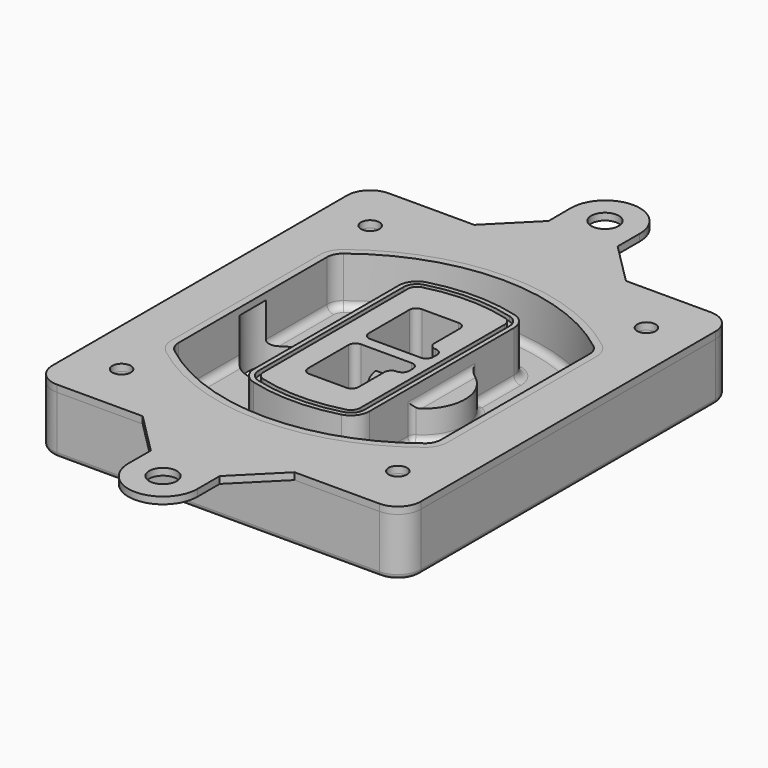
from build123d import *

# Parameters (mm, degrees)
F0_R      = 4
F1_DEPTH  = 25
F2_DEPTH  = 3
F3_DEPTH  = 18
F5_DEPTH  = 21
F6_DEPTH  = 2
F8_DEPTH  = 20
F9_DEPTH  = 16
F10_DEPTH = 25
F7_R      = 6
F7_R_2    = 4
F11_DEPTH = 6
F13_DEPTH = 9
F14_R     = 3
F15_R     = 2
F16_R     = 4
F16_R_2   = 6
F17_DEPTH = 3


with BuildPart() as f1:
    # F0 (on Top) → F1 (new body)
    with BuildSketch(Plane.XY):
        with BuildLine():
            ThreePointArc((-80, -80), (-77.0710678119, -87.0710678119), (-70, -90))
            Line((-70, -90), (70, -90))
            ThreePointArc((70, -90), (77.0710678119, -87.0710678119), (80, -80))
            Line((80, -80), (80, 80))
            ThreePointArc((80, 80), (77.0710678119, 87.0710678119), (70, 90))
            Line((70, 90), (-70, 90))
            ThreePointArc((-70, 90), (-77.0710678119, 87.0710678119), (-80, 80))
            Line((-80, 80), (-80, -80))
        make_face()
        with Locations((-60, -67.5)):
            Circle(F0_R, mode=Mode.SUBTRACT)
        with Locations((60, -67.5)):
            Circle(F0_R, mode=Mode.SUBTRACT)
        with Locations((-60, 67.5)):
            Circle(F0_R, mode=Mode.SUBTRACT)
        with BuildLine():
            ThreePointArc((-64, 40.2934422872), (-62.5820384798, 46.4328484224), (-58.6153846154, 51.3286200352))
            ThreePointArc((-58.6153846154, 51.3286200352), (0, 71.5), (58.6153846154, 51.3286200352))
            ThreePointArc((58.6153846154, 51.3286200352), (62.5820384798, 46.4328484224), (64, 40.2934422872))
            Line((64, 40.2934422872), (64, -40.2934422872))
            ThreePointArc((64, -40.2934422872), (62.5820384798, -46.4328484224), (58.6153846154, -51.3286200352))
            ThreePointArc((58.6153846154, -51.3286200352), (0, -71.5), (-58.6153846154, -51.3286200352))
            ThreePointArc((-58.6153846154, -51.3286200352), (-62.5820384798, -46.4328484224), (-64, -40.2934422872))
            Line((-64, -40.2934422872), (-64, 40.2934422872))
        make_face(mode=Mode.SUBTRACT)
        with Locations((60, 67.5)):
            Circle(F0_R, mode=Mode.SUBTRACT)
        with BuildLine():
            ThreePointArc((58.6153846154, 51.3286200352), (0, 71.5), (-58.6153846154, 51.3286200352))
            ThreePointArc((-58.6153846154, 51.3286200352), (-62.5820384798, 46.4328484224), (-64, 40.2934422872))
            Line((-64, 40.2934422872), (-64, -40.2934422872))
            ThreePointArc((-64, -40.2934422872), (-62.5820384798, -46.4328484224), (-58.6153846154, -51.3286200352))
            ThreePointArc((-58.6153846154, -51.3286200352), (0, -71.5), (58.6153846154, -51.3286200352))
            ThreePointArc((58.6153846154, -51.3286200352), (62.5820384798, -46.4328484224), (64, -40.2934422872))
            Line((64, -40.2934422872), (64, 40.2934422872))
            ThreePointArc((64, 40.2934422872), (62.5820384798, 46.4328484224), (58.6153846154, 51.3286200352))
        make_face()
        with BuildLine():
            Line((-60, -40.2934422872), (-60, 40.2934422872))
            ThreePointArc((-60, 40.2934422872), (-58.9871703427, 44.6787323838), (-56.1538461538, 48.1757121072))
            ThreePointArc((-56.1538461538, 48.1757121072), (0, 67.5), (56.1538461538, 48.1757121072))
            ThreePointArc((56.1538461538, 48.1757121072), (58.9871703427, 44.6787323838), (60, 40.2934422872))
            Line((60, 40.2934422872), (60, -40.2934422872))
            ThreePointArc((60, -40.2934422872), (58.9871703427, -44.6787323838), (56.1538461538, -48.1757121072))
            ThreePointArc((56.1538461538, -48.1757121072), (0, -67.5), (-56.1538461538, -48.1757121072))
            ThreePointArc((-56.1538461538, -48.1757121072), (-58.9871703427, -44.6787323838), (-60, -40.2934422872))
        make_face(mode=Mode.SUBTRACT)
        with BuildLine():
            ThreePointArc((-56.1538461538, 48.1757121072), (-58.9871703427, 44.6787323838), (-60, 40.2934422872))
            Line((-60, 40.2934422872), (-60, -40.2934422872))
            ThreePointArc((-60, -40.2934422872), (-58.9871703427, -44.6787323838), (-56.1538461538, -48.1757121072))
            ThreePointArc((-56.1538461538, -48.1757121072), (0, -67.5), (56.1538461538, -48.1757121072))
            ThreePointArc((56.1538461538, -48.1757121072), (58.9871703427, -44.6787323838), (60, -40.2934422872))
            Line((60, -40.2934422872), (60, 40.2934422872))
            ThreePointArc((60, 40.2934422872), (58.9871703427, 44.6787323838), (56.1538461538, 48.1757121072))
            ThreePointArc((56.1538461538, 48.1757121072), (0, 67.5), (-56.1538461538, 48.1757121072))
        make_face()
        with BuildLine():
            ThreePointArc((54.3076923077, 45.8110311612), (56.2910192399, 43.3631453548), (57, 40.2934422872))
            Line((57, 40.2934422872), (57, -40.2934422872))
            ThreePointArc((57, -40.2934422872), (56.2910192399, -43.3631453548), (54.3076923077, -45.8110311612))
            ThreePointArc((54.3076923077, -45.8110311612), (0, -64.5), (-54.3076923077, -45.8110311612))
            ThreePointArc((-54.3076923077, -45.8110311612), (-56.2910192399, -43.3631453548), (-57, -40.2934422872))
            Line((-57, -40.2934422872), (-57, 40.2934422872))
            ThreePointArc((-57, 40.2934422872), (-56.2910192399, 43.3631453548), (-54.3076923077, 45.8110311612))
            ThreePointArc((-54.3076923077, 45.8110311612), (0, 64.5), (54.3076923077, 45.8110311612))
        make_face(mode=Mode.SUBTRACT)
        with BuildLine():
            Line((57, -40.2934422872), (57, 40.2934422872))
            ThreePointArc((57, 40.2934422872), (56.2910192399, 43.3631453548), (54.3076923077, 45.8110311612))
            ThreePointArc((54.3076923077, 45.8110311612), (0, 64.5), (-54.3076923077, 45.8110311612))
            ThreePointArc((-54.3076923077, 45.8110311612), (-56.2910192399, 43.3631453548), (-57, 40.2934422872))
            Line((-57, 40.2934422872), (-57, -40.2934422872))
            ThreePointArc((-57, -40.2934422872), (-56.2910192399, -43.3631453548), (-54.3076923077, -45.8110311612))
            ThreePointArc((-54.3076923077, -45.8110311612), (0, -64.5), (54.3076923077, -45.8110311612))
            ThreePointArc((54.3076923077, -45.8110311612), (56.2910192399, -43.3631453548), (57, -40.2934422872))
        make_face()
    extrude(amount=-F1_DEPTH)

    # F0 (on Top) → F2 (join)
    with BuildSketch(Plane.XY):
        with BuildLine():
            ThreePointArc((-56.1538461538, 48.1757121072), (-58.9871703427, 44.6787323838), (-60, 40.2934422872))
            Line((-60, 40.2934422872), (-60, -40.2934422872))
            ThreePointArc((-60, -40.2934422872), (-58.9871703427, -44.6787323838), (-56.1538461538, -48.1757121072))
            ThreePointArc((-56.1538461538, -48.1757121072), (0, -67.5), (56.1538461538, -48.1757121072))
            ThreePointArc((56.1538461538, -48.1757121072), (58.9871703427, -44.6787323838), (60, -40.2934422872))
            Line((60, -40.2934422872), (60, 40.2934422872))
            ThreePointArc((60, 40.2934422872), (58.9871703427, 44.6787323838), (56.1538461538, 48.1757121072))
            ThreePointArc((56.1538461538, 48.1757121072), (0, 67.5), (-56.1538461538, 48.1757121072))
        make_face()
        with BuildLine():
            ThreePointArc((54.3076923077, 45.8110311612), (56.2910192399, 43.3631453548), (57, 40.2934422872))
            Line((57, 40.2934422872), (57, -40.2934422872))
            ThreePointArc((57, -40.2934422872), (56.2910192399, -43.3631453548), (54.3076923077, -45.8110311612))
            ThreePointArc((54.3076923077, -45.8110311612), (0, -64.5), (-54.3076923077, -45.8110311612))
            ThreePointArc((-54.3076923077, -45.8110311612), (-56.2910192399, -43.3631453548), (-57, -40.2934422872))
            Line((-57, -40.2934422872), (-57, 40.2934422872))
            ThreePointArc((-57, 40.2934422872), (-56.2910192399, 43.3631453548), (-54.3076923077, 45.8110311612))
            ThreePointArc((-54.3076923077, 45.8110311612), (0, 64.5), (54.3076923077, 45.8110311612))
        make_face(mode=Mode.SUBTRACT)
    extrude(amount=F2_DEPTH)

    # F0 (on Top) → F3 (cut)
    with BuildSketch(Plane.XY):
        with BuildLine():
            Line((57, -40.2934422872), (57, 40.2934422872))
            ThreePointArc((57, 40.2934422872), (56.2910192399, 43.3631453548), (54.3076923077, 45.8110311612))
            ThreePointArc((54.3076923077, 45.8110311612), (0, 64.5), (-54.3076923077, 45.8110311612))
            ThreePointArc((-54.3076923077, 45.8110311612), (-56.2910192399, 43.3631453548), (-57, 40.2934422872))
            Line((-57, 40.2934422872), (-57, -40.2934422872))
            ThreePointArc((-57, -40.2934422872), (-56.2910192399, -43.3631453548), (-54.3076923077, -45.8110311612))
            ThreePointArc((-54.3076923077, -45.8110311612), (0, -64.5), (54.3076923077, -45.8110311612))
            ThreePointArc((54.3076923077, -45.8110311612), (56.2910192399, -43.3631453548), (57, -40.2934422872))
        make_face()
    extrude(amount=-F3_DEPTH, mode=Mode.SUBTRACT)

    # F4 (on face) → F5 (join, through all)
    with BuildSketch(Plane.XY.offset(3)):
        with BuildLine():
            ThreePointArc((-25, -39.2465276821), (-23.3511545998, -44.1109737193), (-19.0842911877, -46.9702398883))
            ThreePointArc((-19.0842911877, -46.9702398883), (0, -49.5), (19.0842911877, -46.9702398883))
            ThreePointArc((19.0842911877, -46.9702398883), (23.3511545998, -44.1109737193), (25, -39.2465276821))
            Line((25, -39.2465276821), (25, 39.2465276821))
            ThreePointArc((25, 39.2465276821), (23.3511545998, 44.1109737193), (19.0842911877, 46.9702398883))
            ThreePointArc((19.0842911877, 46.9702398883), (0, 49.5), (-19.0842911877, 46.9702398883))
            ThreePointArc((-19.0842911877, 46.9702398883), (-23.3511545998, 44.1109737193), (-25, 39.2465276821))
            Line((-25, 39.2465276821), (-25, -39.2465276821))
        make_face()
        with BuildLine():
            ThreePointArc((18.5632183908, 45.0393118368), (21.7633659499, 42.89486221), (23, 39.2465276821))
            Line((23, 39.2465276821), (23, -39.2465276821))
            ThreePointArc((23, -39.2465276821), (21.7633659499, -42.89486221), (18.5632183908, -45.0393118368))
            ThreePointArc((18.5632183908, -45.0393118368), (0, -47.5), (-18.5632183908, -45.0393118368))
            ThreePointArc((-18.5632183908, -45.0393118368), (-21.7633659499, -42.89486221), (-23, -39.2465276821))
            Line((-23, -39.2465276821), (-23, 39.2465276821))
            ThreePointArc((-23, 39.2465276821), (-21.7633659499, 42.89486221), (-18.5632183908, 45.0393118368))
            ThreePointArc((-18.5632183908, 45.0393118368), (0, 47.5), (18.5632183908, 45.0393118368))
        make_face(mode=Mode.SUBTRACT)
        with BuildLine():
            Line((23, -39.2465276821), (23, 39.2465276821))
            ThreePointArc((23, 39.2465276821), (21.7633659499, 42.89486221), (18.5632183908, 45.0393118368))
            ThreePointArc((18.5632183908, 45.0393118368), (0, 47.5), (-18.5632183908, 45.0393118368))
            ThreePointArc((-18.5632183908, 45.0393118368), (-21.7633659499, 42.89486221), (-23, 39.2465276821))
            Line((-23, 39.2465276821), (-23, -39.2465276821))
            ThreePointArc((-23, -39.2465276821), (-21.7633659499, -42.89486221), (-18.5632183908, -45.0393118368))
            ThreePointArc((-18.5632183908, -45.0393118368), (0, -47.5), (18.5632183908, -45.0393118368))
            ThreePointArc((18.5632183908, -45.0393118368), (21.7633659499, -42.89486221), (23, -39.2465276821))
        make_face()
        with BuildLine():
            ThreePointArc((18.0421455939, 43.1083837852), (20.1755772999, 41.6787507007), (21, 39.2465276821))
            Line((21, 39.2465276821), (21, -39.2465276821))
            ThreePointArc((21, -39.2465276821), (20.1755772999, -41.6787507007), (18.0421455939, -43.1083837852))
            ThreePointArc((18.0421455939, -43.1083837852), (0, -45.5), (-18.0421455939, -43.1083837852))
            ThreePointArc((-18.0421455939, -43.1083837852), (-20.1755772999, -41.6787507007), (-21, -39.2465276821))
            Line((-21, -39.2465276821), (-21, 39.2465276821))
            ThreePointArc((-21, 39.2465276821), (-20.1755772999, 41.6787507007), (-18.0421455939, 43.1083837852))
            ThreePointArc((-18.0421455939, 43.1083837852), (0, 45.5), (18.0421455939, 43.1083837852))
        make_face(mode=Mode.SUBTRACT)
        with BuildLine():
            Line((21, -39.2465276821), (21, 39.2465276821))
            ThreePointArc((21, 39.2465276821), (20.1755772999, 41.6787507007), (18.0421455939, 43.1083837852))
            ThreePointArc((18.0421455939, 43.1083837852), (0, 45.5), (-18.0421455939, 43.1083837852))
            ThreePointArc((-18.0421455939, 43.1083837852), (-20.1755772999, 41.6787507007), (-21, 39.2465276821))
            Line((-21, 39.2465276821), (-21, -39.2465276821))
            ThreePointArc((-21, -39.2465276821), (-20.1755772999, -41.6787507007), (-18.0421455939, -43.1083837852))
            ThreePointArc((-18.0421455939, -43.1083837852), (0, -45.5), (18.0421455939, -43.1083837852))
            ThreePointArc((18.0421455939, -43.1083837852), (20.1755772999, -41.6787507007), (21, -39.2465276821))
        make_face()
        with BuildLine():
            Line((-8, -2.5), (14, -2.5))
            ThreePointArc((14, -2.5), (16.1213203436, -3.3786796564), (17, -5.5))
            Line((17, -5.5), (17, -7.5))
            ThreePointArc((17, -7.5), (16.1213203436, -9.6213203436), (14, -10.5))
            ThreePointArc((14, -10.5), (11.8786796564, -11.3786796564), (11, -13.5))
            Line((11, -13.5), (11, -27.5))
            ThreePointArc((11, -27.5), (10.1213203436, -29.6213203436), (8, -30.5))
            Line((8, -30.5), (-8, -30.5))
            ThreePointArc((-8, -30.5), (-10.1213203436, -29.6213203436), (-11, -27.5))
            Line((-11, -27.5), (-11, -5.5))
            ThreePointArc((-11, -5.5), (-10.1213203436, -3.3786796564), (-8, -2.5))
        make_face(mode=Mode.SUBTRACT)
        with BuildLine():
            ThreePointArc((-8, 2.5), (-10.1213203436, 3.3786796564), (-11, 5.5))
            Line((-11, 5.5), (-11, 27.5))
            ThreePointArc((-11, 27.5), (-10.1213203436, 29.6213203436), (-8, 30.5))
            Line((-8, 30.5), (8, 30.5))
            ThreePointArc((8, 30.5), (10.1213203436, 29.6213203436), (11, 27.5))
            Line((11, 27.5), (11, 13.5))
            ThreePointArc((11, 13.5), (11.8786796564, 11.3786796564), (14, 10.5))
            ThreePointArc((14, 10.5), (16.1213203436, 9.6213203436), (17, 7.5))
            Line((17, 7.5), (17, 5.5))
            ThreePointArc((17, 5.5), (16.1213203436, 3.3786796564), (14, 2.5))
            Line((14, 2.5), (-8, 2.5))
        make_face(mode=Mode.SUBTRACT)
    extrude(amount=-F5_DEPTH)

    # F4 (on face) → F6 (cut)
    with BuildSketch(Plane.XY.offset(3)):
        with BuildLine():
            Line((23, -39.2465276821), (23, 39.2465276821))
            ThreePointArc((23, 39.2465276821), (21.7633659499, 42.89486221), (18.5632183908, 45.0393118368))
            ThreePointArc((18.5632183908, 45.0393118368), (0, 47.5), (-18.5632183908, 45.0393118368))
            ThreePointArc((-18.5632183908, 45.0393118368), (-21.7633659499, 42.89486221), (-23, 39.2465276821))
            Line((-23, 39.2465276821), (-23, -39.2465276821))
            ThreePointArc((-23, -39.2465276821), (-21.7633659499, -42.89486221), (-18.5632183908, -45.0393118368))
            ThreePointArc((-18.5632183908, -45.0393118368), (0, -47.5), (18.5632183908, -45.0393118368))
            ThreePointArc((18.5632183908, -45.0393118368), (21.7633659499, -42.89486221), (23, -39.2465276821))
        make_face()
        with BuildLine():
            ThreePointArc((18.0421455939, 43.1083837852), (20.1755772999, 41.6787507007), (21, 39.2465276821))
            Line((21, 39.2465276821), (21, -39.2465276821))
            ThreePointArc((21, -39.2465276821), (20.1755772999, -41.6787507007), (18.0421455939, -43.1083837852))
            ThreePointArc((18.0421455939, -43.1083837852), (0, -45.5), (-18.0421455939, -43.1083837852))
            ThreePointArc((-18.0421455939, -43.1083837852), (-20.1755772999, -41.6787507007), (-21, -39.2465276821))
            Line((-21, -39.2465276821), (-21, 39.2465276821))
            ThreePointArc((-21, 39.2465276821), (-20.1755772999, 41.6787507007), (-18.0421455939, 43.1083837852))
            ThreePointArc((-18.0421455939, 43.1083837852), (0, 45.5), (18.0421455939, 43.1083837852))
        make_face(mode=Mode.SUBTRACT)
    extrude(amount=-F6_DEPTH, mode=Mode.SUBTRACT)

    # F7 (on face) → F8 (join)
    with BuildSketch(Plane(origin=(0, 0, -25), x_dir=(1, 0, 0), z_dir=(0, 0, -1))):
        with BuildLine():
            ThreePointArc((3.28842436, 0), (16.7567035675, 13.4682792075), (30.224982775, 0))
            Line((30.224982775, 0), (35.224982775, 0))
            ThreePointArc((35.224982775, 0), (16.7567035675, 18.4682792075), (-1.71157564, 0))
            Line((-1.71157564, 0), (3.28842436, 0))
        make_face()
        with BuildLine():
            Line((3.28842436, 0), (30.224982775, 0))
            ThreePointArc((30.224982775, 0), (16.7567035675, 13.4682792075), (3.28842436, 0))
        make_face()
        with BuildLine():
            ThreePointArc((3.28842436, 0), (16.7567035675, -13.4682792075), (30.224982775, 0))
            Line((30.224982775, 0), (3.28842436, 0))
        make_face()
        with BuildLine():
            Line((35.224982775, 0), (30.224982775, 0))
            ThreePointArc((30.224982775, 0), (16.7567035675, -13.4682792075), (3.28842436, 0))
            Line((3.28842436, 0), (-1.71157564, 0))
            ThreePointArc((-1.71157564, 0), (16.7567035675, -18.4682792075), (35.224982775, 0))
        make_face()
    extrude(amount=-F8_DEPTH)

    # F7 (on face) → F9 (cut)
    with BuildSketch(Plane(origin=(0, 0, -25), x_dir=(1, 0, 0), z_dir=(0, 0, -1))):
        with BuildLine():
            Line((3.28842436, 0), (30.224982775, 0))
            ThreePointArc((30.224982775, 0), (16.7567035675, 13.4682792075), (3.28842436, 0))
        make_face()
        with BuildLine():
            ThreePointArc((3.28842436, 0), (16.7567035675, -13.4682792075), (30.224982775, 0))
            Line((30.224982775, 0), (3.28842436, 0))
        make_face()
    extrude(amount=-F9_DEPTH, mode=Mode.SUBTRACT)

    # F7 (on face) → F10 (cut)
    with BuildSketch(Plane(origin=(0, 0, -25), x_dir=(1, 0, 0), z_dir=(0, 0, -1))):
        with BuildLine():
            Line((-59.0318229325, 0), (-32.0952645175, 0))
            ThreePointArc((-32.0952645175, 0), (-45.563543725, 13.4682792075), (-59.0318229325, 0))
        make_face()
        with BuildLine():
            ThreePointArc((-59.0318229325, 0), (-45.563543725, -13.4682792075), (-32.0952645175, 0))
            Line((-32.0952645175, 0), (-59.0318229325, 0))
        make_face()
    extrude(amount=-F10_DEPTH, mode=Mode.SUBTRACT)

    # F7 (on face) → F11 (cut)
    with BuildSketch(Plane(origin=(0, 0, -25), x_dir=(1, 0, 0), z_dir=(0, 0, -1))):
        with Locations((60, -67.5)):
            Circle(F7_R)
        with Locations((60, -67.5)):
            Circle(F7_R_2, mode=Mode.SUBTRACT)
        with Locations((60, -67.5)):
            Circle(F7_R)
        with Locations((60, -67.5)):
            Circle(F7_R_2, mode=Mode.SUBTRACT)
        with Locations((-60, -67.5)):
            Circle(F7_R)
        with Locations((-60, -67.5)):
            Circle(F7_R_2, mode=Mode.SUBTRACT)
        with Locations((-60, -67.5)):
            Circle(F7_R)
        with Locations((-60, -67.5)):
            Circle(F7_R_2, mode=Mode.SUBTRACT)
        with Locations((-60, 67.5)):
            Circle(F7_R)
        with Locations((-60, 67.5)):
            Circle(F7_R_2, mode=Mode.SUBTRACT)
        with Locations((-60, 67.5)):
            Circle(F7_R)
        with Locations((-60, 67.5)):
            Circle(F7_R_2, mode=Mode.SUBTRACT)
        with Locations((60, 67.5)):
            Circle(F7_R)
        with Locations((60, 67.5)):
            Circle(F7_R_2, mode=Mode.SUBTRACT)
        with Locations((60, 67.5)):
            Circle(F7_R)
        with Locations((60, 67.5)):
            Circle(F7_R_2, mode=Mode.SUBTRACT)
    extrude(amount=-F11_DEPTH, mode=Mode.SUBTRACT)

    # F12 (on face) → F13 (cut, through all)
    with BuildSketch(Plane(origin=(0, 0, -9), x_dir=(1, 0, 0), z_dir=(0, 0, -1))):
        with BuildLine():
            Line((11, 13.5), (11, 17.5481537753))
            ThreePointArc((11, 17.5481537753), (2.5696536419, 11.8239143813), (-1.5415842455, 2.5))
            Line((-1.5415842455, 2.5), (3.5224848595, 2.5))
            ThreePointArc((3.5224848595, 2.5), (6.1857188154, 8.3455872281), (11.2536447004, 12.2927168648))
            ThreePointArc((11.2536447004, 12.2927168648), (11.0640958889, 12.8831798879), (11, 13.5))
        make_face()
        with BuildLine():
            ThreePointArc((11.2536447004, -12.2927168648), (6.1857188154, -8.3455872281), (3.5224848595, -2.5))
            Line((3.5224848595, -2.5), (-1.5415842455, -2.5))
            ThreePointArc((-1.5415842455, -2.5), (2.5696536419, -11.8239143813), (11, -17.5481537753))
            Line((11, -17.5481537753), (11, -13.5))
            ThreePointArc((11, -13.5), (11.0640958889, -12.8831798879), (11.2536447004, -12.2927168648))
        make_face()
        with BuildLine():
            ThreePointArc((11.2536447004, 12.2927168648), (6.1857188154, 8.3455872281), (3.5224848595, 2.5))
            Line((3.5224848595, 2.5), (14, 2.5))
            ThreePointArc((14, 2.5), (16.1213203436, 3.3786796564), (17, 5.5))
            Line((17, 5.5), (17, 7.5))
            ThreePointArc((17, 7.5), (16.1213203436, 9.6213203436), (14, 10.5))
            ThreePointArc((14, 10.5), (12.3601599782, 10.9878446101), (11.2536447004, 12.2927168648))
        make_face()
        with BuildLine():
            Line((14, -2.5), (3.5224848595, -2.5))
            ThreePointArc((3.5224848595, -2.5), (6.1857188154, -8.3455872281), (11.2536447004, -12.2927168648))
            ThreePointArc((11.2536447004, -12.2927168648), (12.3601599782, -10.9878446101), (14, -10.5))
            ThreePointArc((14, -10.5), (16.1213203436, -9.6213203436), (17, -7.5))
            Line((17, -7.5), (17, -5.5))
            ThreePointArc((17, -5.5), (16.1213203436, -3.3786796564), (14, -2.5))
        make_face()
    extrude(amount=F13_DEPTH, mode=Mode.SUBTRACT)

    # F14
    f14_edges = [f1.edges().sort_by_distance(p)[0] for p in [
        (-57, -23.703476, -18),
        (-57, 23.703476, -18),
        (25, 0, -5),
        (25, 16.526506, -11.5),
        (25, -16.526506, -11.5),
        (25, -27.886517, -18),
        (35.224983, 0, -18),
    ]]
    fillet(f14_edges, radius=F14_R)

    # F15
    f15_edges = [f1.edges().sort_by_distance(p)[0] for p in [
        (0, -90, -25),
    ]]
    fillet(f15_edges, radius=F15_R)


with BuildPart() as f17:
    # F16 (on face) → F17 (new body, through all)
    with BuildSketch(Plane.XY):
        with BuildLine():
            Line((70, 90), (33.0914221704, 90))
            Line((33.0914221704, 90), (-32.8182242811, 90))
            Line((-32.8182242811, 90), (-70, 90))
            ThreePointArc((-70, 90), (-77.0710678119, 87.0710678119), (-80, 80))
            Line((-80, 80), (-80, -80))
            ThreePointArc((-80, -80), (-77.0710678119, -87.0710678119), (-70, -90))
            Line((-70, -90), (-32.8182242811, -90))
            Line((-32.8182242811, -90), (33.0914221704, -90))
            Line((33.0914221704, -90), (70, -90))
            ThreePointArc((70, -90), (77.0710678119, -87.0710678119), (80, -80))
            Line((80, -80), (80, 80))
            ThreePointArc((80, 80), (77.0710678119, 87.0710678119), (70, 90))
        make_face()
        with Locations((-60, -67.5)):
            Circle(F16_R, mode=Mode.SUBTRACT)
        with BuildLine():
            ThreePointArc((-60, 40.2934422872), (-58.9871703427, 44.6787323838), (-56.1538461538, 48.1757121072))
            ThreePointArc((-56.1538461538, 48.1757121072), (0, 67.5), (56.1538461538, 48.1757121072))
            ThreePointArc((56.1538461538, 48.1757121072), (58.9871703427, 44.6787323838), (60, 40.2934422872))
            Line((60, 40.2934422872), (60, -40.2934422872))
            ThreePointArc((60, -40.2934422872), (58.9871703427, -44.6787323838), (56.1538461538, -48.1757121072))
            ThreePointArc((56.1538461538, -48.1757121072), (0, -67.5), (-56.1538461538, -48.1757121072))
            ThreePointArc((-56.1538461538, -48.1757121072), (-58.9871703427, -44.6787323838), (-60, -40.2934422872))
            Line((-60, -40.2934422872), (-60, 40.2934422872))
        make_face(mode=Mode.SUBTRACT)
        with Locations((60, -67.5)):
            Circle(F16_R, mode=Mode.SUBTRACT)
        with Locations((-60, 67.5)):
            Circle(F16_R, mode=Mode.SUBTRACT)
        with Locations((60, 67.5)):
            Circle(F16_R, mode=Mode.SUBTRACT)
        with BuildLine():
            Line((15.0630894864, 108.028332684), (15.0630894864, 120.0285060143))
            ThreePointArc((15.0630894864, 120.0285060143), (0.0632702078, 135.1021375804), (-14.9365490709, 120.0285060143))
            Line((-14.9365490709, 120.0285060143), (-14.8775031771, 108))
            Line((-14.8775031771, 108), (-32.8182242811, 90))
            Line((-32.8182242811, 90), (33.0914221704, 90))
            Line((33.0914221704, 90), (15.0630894864, 108.028332684))
        make_face()
        with Locations((0, 120)):
            Circle(F16_R_2, mode=Mode.SUBTRACT)
        with BuildLine():
            Line((15.0630894864, -108.028332684), (33.0914221704, -90))
            Line((33.0914221704, -90), (-32.8182242811, -90))
            Line((-32.8182242811, -90), (-14.8775031771, -108))
            Line((-14.8775031771, -108), (-14.9365490709, -120.0285060143))
            ThreePointArc((-14.9365490709, -120.0285060143), (0.0632702078, -135.1021375804), (15.0630894864, -120.0285060143))
            Line((15.0630894864, -120.0285060143), (15.0630894864, -108.028332684))
        make_face()
        with Locations((0, -120)):
            Circle(F16_R_2, mode=Mode.SUBTRACT)
    extrude(amount=F17_DEPTH)


solid = Compound([f1.part, f17.part])
